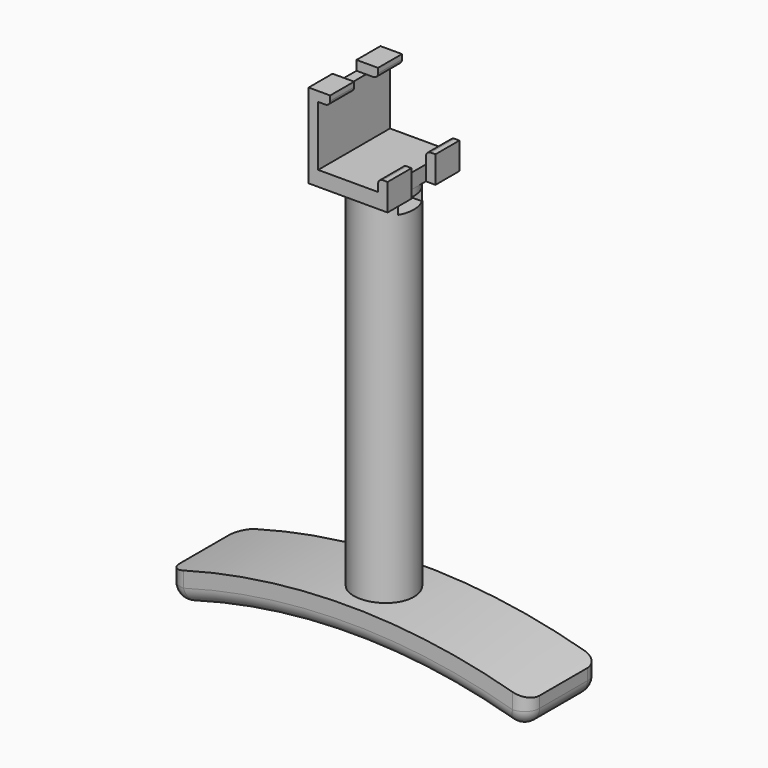
from build123d import *

# Parameters (mm, degrees)
F0_W      = 16.764
F0_H      = 17.907
F0_W_2    = 12.7
F0_H_2    = 12.7
F1_DEPTH  = 19.05
F2_W      = 21.1890064
F2_H      = 17.8200355506
F3_DEPTH  = 25.4
F4_R      = 6.35
F5_DEPTH  = 76.2
F7_DEPTH  = 19.05
F8_DEPTH  = 79.375
F9_R      = 3.175
F10_R     = 1.016
F12_DEPTH = 25.4
F13_W     = 9.1727420804
F13_H     = 4.4667599723
F13_W_2   = 3.1133545563
F13_H_2   = 8.6221548263
F14_DEPTH = 6.35


with BuildPart() as f1:
    # F0 (on Front) → F1 (new body)
    with BuildSketch(Plane.XZ):
        with Locations((8.382, 8.9535)):
            Rectangle(F0_W, F0_H)
        with Locations((8.382, 9.525)):
            Rectangle(F0_W_2, F0_H_2, mode=Mode.SUBTRACT)
    extrude(amount=F1_DEPTH)

    # F2 (on Front) → F3 (cut)
    with BuildSketch(Plane.XZ):
        with Locations((15.1665032, 14.6250177753)):
            Rectangle(F2_W, F2_H)
    extrude(amount=F3_DEPTH, mode=Mode.SUBTRACT)

    # F4 (on face) → F5 (join)
    with BuildSketch(Plane(origin=(0, 0, 0), x_dir=(1, 0, 0), z_dir=(0, 0, -1))):
        with Locations((8.382, 9.525)):
            Circle(F4_R)
    extrude(amount=F5_DEPTH)

    # F6 (on Front) → F7 (join)
    with BuildSketch(Plane.XZ):
        with BuildLine():
            Line((46.482, -88.5501227317), (46.482, -81.894013743))
            ThreePointArc((46.482, -81.894013743), (8.382, -76.2), (-29.718, -81.894013743))
            Line((-29.718, -81.894013743), (-29.718, -88.5501227317))
            ThreePointArc((-29.718, -88.5501227317), (8.382, -82.55), (46.482, -88.5501227317))
        make_face()
    extrude(amount=F7_DEPTH)

    # F4 (on face) → F8 (join)
    with BuildSketch(Plane(origin=(0, 0, 0), x_dir=(1, 0, 0), z_dir=(0, 0, -1))):
        with Locations((8.382, 9.525)):
            Circle(F4_R)
    extrude(amount=F8_DEPTH)

    # F9
    f9_edges = [f1.edges().sort_by_distance(p)[0] for p in [
        (8.382, -19.05, -82.55),
        (46.482, -9.525, -88.550123),
        (46.482, -19.05, -85.222068),
        (-29.718, -19.05, -85.222068),
        (-29.718, 0, -85.222068),
        (8.382, 0, -82.55),
        (-29.718, -9.525, -88.550123),
        (46.482, 0, -85.222068),
    ]]
    fillet(f9_edges, radius=F9_R)

    # F10
    f10_edges = [f1.edges().sort_by_distance(p)[0] for p in [
        (4.572, -9.525, 15.875),
        (14.732, -9.525, 5.715),
    ]]
    fillet(f10_edges, radius=F10_R)

    # F11 (on Right) → F12 (cut)
    with BuildSketch(Plane.YZ):
        Polygon((-9.525, -1.4437012938), (-12.7, -1.4437012938), (-12.7, -3.9837012938), (-6.35, -3.9837012938), (-6.35, -1.4437012938), align=None)
    extrude(amount=F12_DEPTH, mode=Mode.SUBTRACT)

    # F13 (on face) → F14 (cut, through all)
    with BuildSketch(Plane.XZ.offset(6.35)):
        with Locations((3.6581899913, 18.1083799861)):
            Rectangle(F13_W, F13_H)
        with Locations((16.2886772781, 2.7195581933)):
            Rectangle(F13_W_2, F13_H_2)
    extrude(amount=F14_DEPTH, mode=Mode.SUBTRACT)


solid = f1.part
